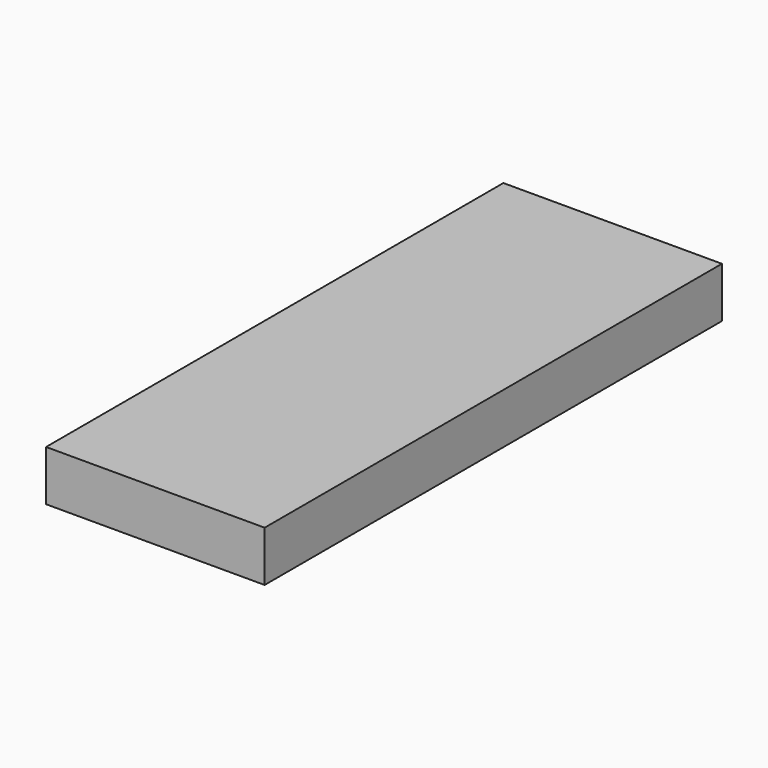
from build123d import *

# Parameters (mm, degrees)
F1_DEPTH = 63.5
F2_DEPTH = 25.4
F3_DEPTH = 63.5


with BuildPart() as f1:
    # F0 (on Front) → F1 (new body, symmetric)
    with BuildSketch(Plane.XZ):
        Polygon((-41.275, -9.525), (41.275, -9.525), (41.275, 9.525), (22.225, 9.525), (-41.275, 9.525), align=None)
    extrude(amount=F1_DEPTH, both=True)

    # F2 (add): a face of the model
    f2_faces = [f1.faces().sort_by_distance(p)[0] for p in [
        (0, -63.5, 0),
    ]]
    extrude(f2_faces, amount=F2_DEPTH)

    # F3 (add, symmetric): a face of the model
    f3_faces = [f1.faces().sort_by_distance(p)[0] for p in [
        (0, -88.9, 0),
    ]]
    extrude(f3_faces, amount=F3_DEPTH, both=True)


solid = f1.part
